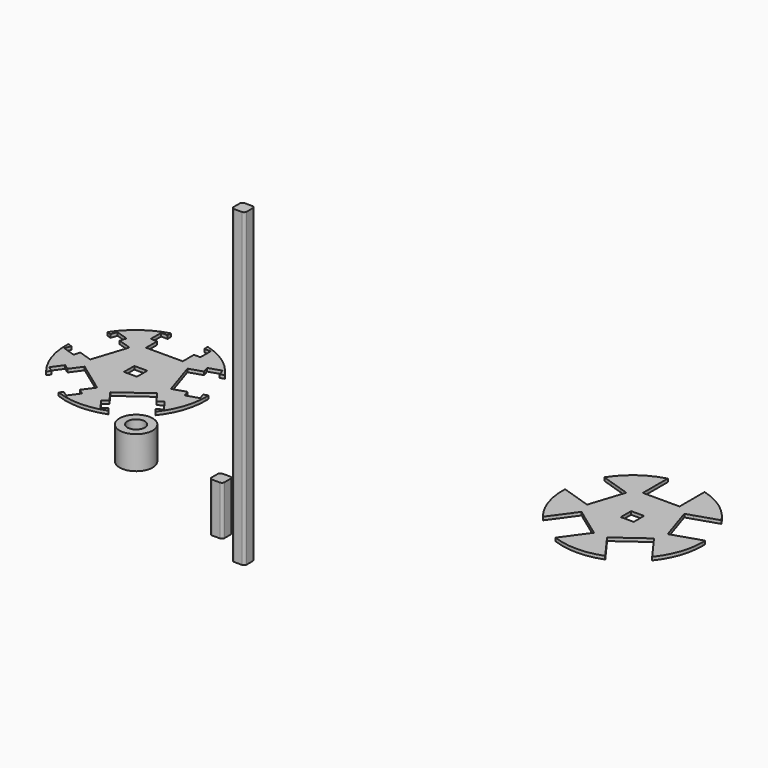
from build123d import *

# Parameters (mm, degrees)
F0_W     = 3.175
F0_H     = 3.175
F0_W_2   = 1.5875
F1_DEPTH = 0.79375
F0_R     = 4.064
F0_R_2   = 2.1209
F2_DEPTH = 8
F3_DEPTH = 12.065
F4_DEPTH = 76.2
F5_R     = 0.635
F5_2_R   = 0.635


with BuildPart() as f1:
    # F0 (on Top) → F1 (new body)
    with BuildSketch(Plane.XY):
        with BuildLine():
            ThreePointArc((79.4359174406, 13.620231622), (82.2176024045, 18.6495635805), (83.1809139002, 24.3156011863))
            ThreePointArc((83.1809139002, 24.3156011863), (83.1751506376, 24.7601110941), (83.1578647245, 25.2043221595))
            Line((83.1578647245, 25.2043221595), (80.6959857074, 24.4044091771))
            Line((80.6959857074, 24.4044091771), (81.186550186, 22.8946069574))
            Line((81.186550186, 22.8946069574), (78.1669457467, 21.9134780003))
            Line((78.1669457467, 21.9134780003), (77.6763812682, 23.4232802199))
            Line((77.6763812682, 23.4232802199), (75.8645369763, 22.834576323))
            Line((75.8645369763, 22.834576323), (73.0833840269, 31.3940849696))
            Line((73.0833840269, 31.3940849696), (74.8750347538, 31.9762275796))
            Line((74.8750347538, 31.9762275796), (74.3844702753, 33.4860297992))
            Line((74.3844702753, 33.4860297992), (77.4040747145, 34.4671587563))
            Line((77.4040747145, 34.4671587563), (77.8946391931, 32.9573565367))
            Line((77.8946391931, 32.9573565367), (80.3486436372, 33.7547109153))
            ThreePointArc((80.3486436372, 33.7547109153), (76.0679539826, 38.2191689581), (70.481663809, 40.8741739734))
            Line((70.481663809, 40.8741739734), (70.481663809, 38.2856011863))
            Line((70.481663809, 38.2856011863), (72.069163809, 38.2856011863))
            Line((72.069163809, 38.2856011863), (72.069163809, 35.1106011863))
            Line((72.069163809, 35.1106011863), (70.481663809, 35.1106011863))
            Line((70.481663809, 35.1106011863), (70.481663809, 33.2055153572))
            Line((70.481663809, 33.2055153572), (61.481663809, 33.2055153572))
            Line((61.481663809, 33.2055153572), (61.481663809, 35.0893684155))
            Line((61.481663809, 35.0893684155), (59.894163809, 35.0893684155))
            Line((59.894163809, 35.0893684155), (59.894163809, 38.2643684155))
            Line((59.894163809, 38.2643684155), (61.481663809, 38.2643684155))
            Line((61.481663809, 38.2643684155), (61.481663809, 40.8446613866))
            ThreePointArc((61.481663809, 40.8446613866), (55.9129060448, 38.1530770023), (51.661587625, 33.6606410007))
            Line((51.661587625, 33.6606410007), (54.1234666421, 32.8607280183))
            Line((54.1234666421, 32.8607280183), (54.6140311207, 34.3705302379))
            Line((54.6140311207, 34.3705302379), (57.6336355599, 33.3894012808))
            Line((57.6336355599, 33.3894012808), (57.1430710814, 31.8795990611))
            Line((57.1430710814, 31.8795990611), (58.9549153732, 31.2908951642))
            Line((58.9549153732, 31.2908951642), (56.1737624238, 22.7313865175))
            Line((56.1737624238, 22.7313865175), (54.3821116969, 23.3135291275))
            Line((54.3821116969, 23.3135291275), (53.8915472184, 21.8037269079))
            Line((53.8915472184, 21.8037269079), (50.8719427791, 22.784855865))
            Line((50.8719427791, 22.784855865), (51.3625072577, 24.2946580846))
            Line((51.3625072577, 24.2946580846), (48.9085028136, 25.0920124632))
            ThreePointArc((48.9085028136, 25.0920124632), (49.7475108948, 18.9640637873), (52.7063417879, 13.5325806306))
            Line((52.7063417879, 13.5325806306), (54.2278666967, 15.6267800066))
            Line((54.2278666967, 15.6267800066), (52.9435522181, 16.5598890946))
            Line((52.9435522181, 16.5598890946), (54.8097703941, 19.1285180518))
            Line((54.8097703941, 19.1285180518), (56.0940848727, 18.1954089638))
            Line((56.0940848727, 18.1954089638), (57.2138662274, 19.7366557752))
            Line((57.2138662274, 19.7366557752), (64.4950191768, 14.4465885046))
            Line((64.4950191768, 14.4465885046), (63.3877181316, 12.9225193655))
            Line((63.3877181316, 12.9225193655), (64.6720326102, 11.9894102775))
            Line((64.6720326102, 11.9894102775), (62.8058144341, 9.4207813203))
            Line((62.8058144341, 9.4207813203), (61.5214999556, 10.3538904083))
            Line((61.5214999556, 10.3538904083), (60.0048418006, 8.2663895443))
            ThreePointArc((60.0048418006, 8.2663895443), (66.0921350758, 7.1706933656), (72.1721115545, 8.306288167))
            Line((72.1721115545, 8.306288167), (70.6505866457, 10.400487543))
            Line((70.6505866457, 10.400487543), (69.3662721672, 9.467378455))
            Line((69.3662721672, 9.467378455), (67.5000539911, 12.0360074122))
            Line((67.5000539911, 12.0360074122), (68.7843684697, 12.9691165002))
            Line((68.7843684697, 12.9691165002), (67.664587115, 14.5103633117))
            Line((67.664587115, 14.5103633117), (74.9457400644, 19.8004305823))
            Line((74.9457400644, 19.8004305823), (76.0530411096, 18.2763614432))
            Line((76.0530411096, 18.2763614432), (77.3373555881, 19.2094705312))
            Line((77.3373555881, 19.2094705312), (79.2035737642, 16.640841574))
            Line((79.2035737642, 16.640841574), (77.9192592856, 15.707732486))
            Line((77.9192592856, 15.707732486), (79.4359174406, 13.620231622))
        make_face()
        with Locations((66.0359139002, 24.3156011863)):
            Rectangle(F0_W, F0_H, mode=Mode.SUBTRACT)
        with Locations((60.687913809, 36.6768684155)):
            Rectangle(F0_W_2, F0_H)
        with Locations((71.275413809, 36.6981011863)):
            Rectangle(F0_W_2, F0_H)
        Polygon((74.8750347538, 31.9762275796), (77.8946391931, 32.9573565367), (77.4040747145, 34.4671587563), (74.3844702753, 33.4860297992), align=None)
        Polygon((81.186550186, 22.8946069574), (80.6959857074, 24.4044091771), (77.6763812682, 23.4232802199), (78.1669457467, 21.9134780003), align=None)
        Polygon((76.0530411096, 18.2763614432), (77.9192592856, 15.707732486), (79.2035737642, 16.640841574), (77.3373555881, 19.2094705312), align=None)
        Polygon((69.3662721672, 9.467378455), (70.6505866457, 10.400487543), (68.7843684697, 12.9691165002), (67.5000539911, 12.0360074122), align=None)
        Polygon((63.3877181316, 12.9225193655), (61.5214999556, 10.3538904083), (62.8058144341, 9.4207813203), (64.6720326102, 11.9894102775), align=None)
        Polygon((52.9435522181, 16.5598890946), (54.2278666967, 15.6267800066), (56.0940848727, 18.1954089638), (54.8097703941, 19.1285180518), align=None)
        Polygon((54.3821116969, 23.3135291275), (51.3625072577, 24.2946580846), (50.8719427791, 22.784855865), (53.8915472184, 21.8037269079), align=None)
        Polygon((54.6140311207, 34.3705302379), (54.1234666421, 32.8607280183), (57.1430710814, 31.8795990611), (57.6336355599, 33.3894012808), align=None)
    extrude(amount=F1_DEPTH)


with BuildPart() as f1b:
    # F0 (on Top) → F1, piece 2 (new body)
    with BuildSketch(Plane.XY):
        with BuildLine():
            ThreePointArc((-32.4621521639, 1.1999585457), (-29.6804672, 6.2292905042), (-28.7171557043, 11.89532811))
            ThreePointArc((-28.7171557043, 11.89532811), (-28.7229189669, 12.3398380178), (-28.7402048799, 12.7840490832))
            Line((-28.7402048799, 12.7840490832), (-29.7526737663, 12.4550780002))
            Line((-29.7526737663, 12.4550780002), (-29.2621092877, 10.9452757806))
            Line((-29.2621092877, 10.9452757806), (-32.2817137269, 9.9641468234))
            Line((-32.2817137269, 9.9641468234), (-32.7722782055, 11.4739490431))
            Line((-32.7722782055, 11.4739490431), (-36.0335326282, 10.4143032467))
            Line((-36.0335326282, 10.4143032467), (-38.8146855776, 18.9738118934))
            Line((-38.8146855776, 18.9738118934), (-35.5534311549, 20.0334576897))
            Line((-35.5534311549, 20.0334576897), (-36.0439956334, 21.5432599093))
            Line((-36.0439956334, 21.5432599093), (-33.0243911942, 22.5243888665))
            Line((-33.0243911942, 22.5243888665), (-32.5338267156, 21.0145866469))
            Line((-32.5338267156, 21.0145866469), (-31.5494259673, 21.334437839))
            ThreePointArc((-31.5494259673, 21.334437839), (-35.8301156219, 25.7988958818), (-41.4164057955, 28.4539008971))
            Line((-41.4164057955, 28.4539008971), (-41.4164057955, 27.38932811))
            Line((-41.4164057955, 27.38932811), (-39.8289057955, 27.38932811))
            Line((-39.8289057955, 27.38932811), (-39.8289057955, 24.21432811))
            Line((-39.8289057955, 24.21432811), (-41.4164057955, 24.21432811))
            Line((-41.4164057955, 24.21432811), (-41.4164057955, 20.7852422809))
            Line((-41.4164057955, 20.7852422809), (-50.4164057955, 20.7852422809))
            Line((-50.4164057955, 20.7852422809), (-50.4164057955, 24.21432811))
            Line((-50.4164057955, 24.21432811), (-52.0039057955, 24.21432811))
            Line((-52.0039057955, 24.21432811), (-52.0039057955, 27.38932811))
            Line((-52.0039057955, 27.38932811), (-50.4164057955, 27.38932811))
            Line((-50.4164057955, 27.38932811), (-50.4164057955, 28.4243883103))
            ThreePointArc((-50.4164057955, 28.4243883103), (-55.9851635597, 25.732803926), (-60.2364819795, 21.2403679244))
            Line((-60.2364819795, 21.2403679244), (-59.2240130932, 20.9113968414))
            Line((-59.2240130932, 20.9113968414), (-58.7334486146, 22.421199061))
            Line((-58.7334486146, 22.421199061), (-55.7138441754, 21.4400701039))
            Line((-55.7138441754, 21.4400701039), (-56.204408654, 19.9302678843))
            Line((-56.204408654, 19.9302678843), (-52.9431542313, 18.8706220879))
            Line((-52.9431542313, 18.8706220879), (-55.7243071807, 10.3111134413))
            Line((-55.7243071807, 10.3111134413), (-58.9855616034, 11.3707592376))
            Line((-58.9855616034, 11.3707592376), (-59.4761260819, 9.860957018))
            Line((-59.4761260819, 9.860957018), (-62.4957305212, 10.8420859751))
            Line((-62.4957305212, 10.8420859751), (-62.0051660426, 12.3518881948))
            Line((-62.0051660426, 12.3518881948), (-62.9895667909, 12.6717393869))
            ThreePointArc((-62.9895667909, 12.6717393869), (-62.1505587097, 6.543790711), (-59.1917278166, 1.1123075543))
            Line((-59.1917278166, 1.1123075543), (-58.5659876323, 1.9735650309))
            Line((-58.5659876323, 1.9735650309), (-59.8503021109, 2.9066741189))
            Line((-59.8503021109, 2.9066741189), (-57.9840839349, 5.4753030761))
            Line((-57.9840839349, 5.4753030761), (-56.6997694563, 4.5421939881))
            Line((-56.6997694563, 4.5421939881), (-54.6842033771, 7.316382699))
            Line((-54.6842033771, 7.316382699), (-47.4030504277, 2.0263154283))
            Line((-47.4030504277, 2.0263154283), (-49.4186165069, -0.7478732826))
            Line((-49.4186165069, -0.7478732826), (-48.1343020283, -1.6809823706))
            Line((-48.1343020283, -1.6809823706), (-50.0005202044, -4.2496113277))
            Line((-50.0005202044, -4.2496113277), (-51.2848346829, -3.3165022397))
            Line((-51.2848346829, -3.3165022397), (-51.8932278039, -4.153883532))
            ThreePointArc((-51.8932278039, -4.153883532), (-45.8059345287, -5.2495797107), (-39.72595805, -4.1139849092))
            Line((-39.72595805, -4.1139849092), (-40.3516982343, -3.2527274327))
            Line((-40.3516982343, -3.2527274327), (-41.6360127128, -4.1858365207))
            Line((-41.6360127128, -4.1858365207), (-43.5022308889, -1.6172075635))
            Line((-43.5022308889, -1.6172075635), (-42.2179164103, -0.6840984755))
            Line((-42.2179164103, -0.6840984755), (-44.2334824895, 2.0900902354))
            Line((-44.2334824895, 2.0900902354), (-36.9523295401, 7.380157506))
            Line((-36.9523295401, 7.380157506), (-34.9367634609, 4.6059687951))
            Line((-34.9367634609, 4.6059687951), (-33.6524489824, 5.5390778831))
            Line((-33.6524489824, 5.5390778831), (-31.7862308063, 2.970448926))
            Line((-31.7862308063, 2.970448926), (-33.0705452849, 2.037339838))
            Line((-33.0705452849, 2.037339838), (-32.4621521639, 1.1999585457))
        make_face()
        with Locations((-45.8621557043, 11.89532811)):
            Rectangle(F0_W, F0_H, mode=Mode.SUBTRACT)
    extrude(amount=F1_DEPTH)


with BuildPart() as f2:
    # F0 (on Top) → F2 (new body)
    with BuildSketch(Plane.XY):
        with Locations((-23.3863368352, -16.047612899)):
            Circle(F0_R)
        with Locations((-23.3863368352, -16.047612899)):
            Circle(F0_R_2, mode=Mode.SUBTRACT)
    extrude(amount=F2_DEPTH)


with BuildPart() as f3:
    # F0 (on Top) → F3 (new body)
    with BuildSketch(Plane.XY):
        with Locations((8.1075645477, -29.3496128678)):
            Rectangle(F0_W, F0_H)
    extrude(amount=F3_DEPTH)

    # F5
    f5_edges = [f3.edges().sort_by_distance(p)[0] for p in [
        (9.695065, -30.937113, 6.0325),
        (6.520065, -30.937113, 6.0325),
        (9.695065, -27.762113, 6.0325),
        (6.520065, -27.762113, 6.0325),
    ]]
    fillet(f5_edges, radius=F5_R)


with BuildPart() as f4:
    # F0 (on Top) → F4 (new body)
    with BuildSketch(Plane.XY):
        with Locations((18.2828865945, -35.2963171899)):
            Rectangle(F0_W, F0_H)
    extrude(amount=F4_DEPTH)

    # F5#2
    f5_2_edges = [f4.edges().sort_by_distance(p)[0] for p in [
        (19.870387, -36.883817, 38.1),
        (16.695387, -36.883817, 38.1),
        (19.870387, -33.708817, 38.1),
        (16.695387, -33.708817, 38.1),
    ]]
    fillet(f5_2_edges, radius=F5_2_R)


solid = Compound([f1.part, f1b.part, f2.part, f3.part, f4.part])
